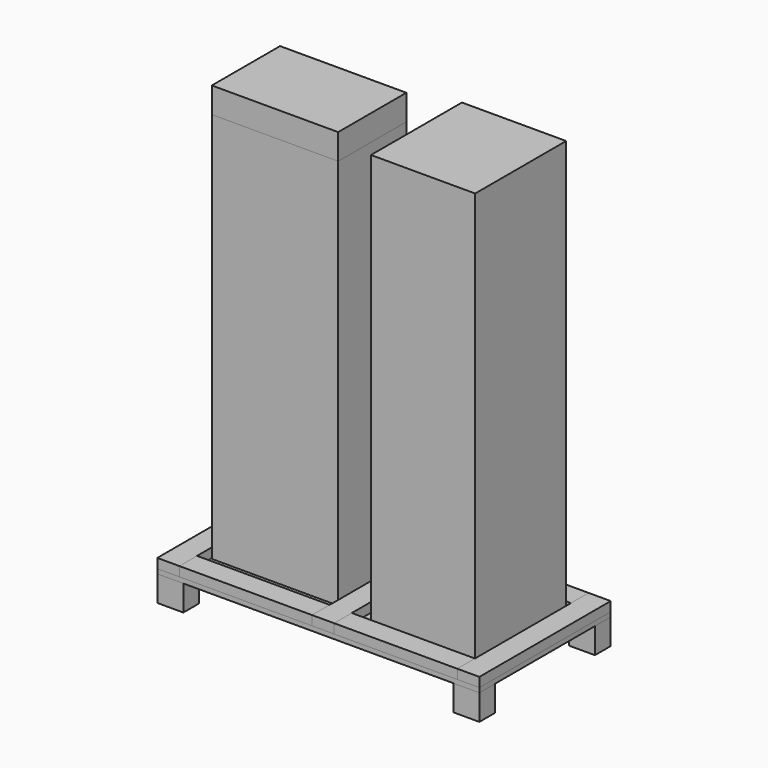
from build123d import *

# Parameters (mm, degrees)
F1_W      = 508
F1_H      = 342.9
F2_DEPTH  = 1676.4
F3_W      = 419.1
F3_H      = 457.2
F4_DEPTH  = 1676.4
F6_W      = 104.775
F6_H      = 79.375
F2_FACE_W = 508
F2_FACE_H = 342.9
F7_DEPTH  = 103.124
F8_W      = 1295.4
F8_H      = 660.4
F9_DEPTH  = 18.25625
F10_W     = 88.9
F10_H     = 38.1
F11_DEPTH = 1295.4
F13_W     = 88.9
F13_H     = 38.1
F14_DEPTH = 660.4


with BuildPart() as f2:
    # F1 (on Top) → F2 (new body)
    with BuildSketch(Plane.XY):
        with Locations((-301.2818683147, 0)):
            Rectangle(F1_W, F1_H)
    extrude(amount=F2_DEPTH)


with BuildPart() as f4:
    # F3 (on Top) → F4 (new body)
    with BuildSketch(Plane.XY):
        with Locations((340.0681316853, 0)):
            Rectangle(F3_W, F3_H)
    extrude(amount=F4_DEPTH)


with BuildPart() as f7:
    # F6 (on offset) + F2_face (on face) → F7 (new body)
    with BuildSketch(Plane.XY.offset(-18.25625)):
        with Locations((-595.3125, -290.5125)):
            Rectangle(F6_W, F6_H)
        with Locations((595.3125, -290.5125)):
            Rectangle(F6_W, F6_H)
        with Locations((-595.3125, 290.5125)):
            Rectangle(F6_W, F6_H)
        with Locations((595.3125, 290.5125)):
            Rectangle(F6_W, F6_H)
    with BuildSketch(Plane(origin=(-301.2818683147, 0, 1676.4), x_dir=(1, 0, 0), z_dir=(0, 0, 1))):
        Rectangle(F2_FACE_W, F2_FACE_H)
    extrude(amount=-F7_DEPTH)


with BuildPart() as f9:
    # F8 (on Top) → F9 (new body)
    with BuildSketch(Plane.XY):
        Rectangle(F8_W, F8_H)
    extrude(amount=-F9_DEPTH)


with BuildPart() as f11:
    # F10 (on face) → F11 (new body, through all)
    with BuildSketch(Plane(origin=(-647.7, 0, 0), x_dir=(0, -1, 0), z_dir=(-1, 0, 0))):
        with Locations((285.75, 19.05)):
            Rectangle(F10_W, F10_H)
    extrude(amount=-F11_DEPTH)


with BuildPart() as f12_1:
    # F12: instance of F11
    add(f11.part.mirror(Plane.XZ))


with BuildPart() as f14:
    # F13 (on face) → F14 (new body, through all)
    with BuildSketch(Plane.XZ.offset(330.2)):
        with Locations((-603.25, 19.05)):
            Rectangle(F13_W, F13_H)
    extrude(amount=-F14_DEPTH)


with BuildPart() as f17_1:
    # F17: instance of F14
    add(f14.part.mirror(Plane(origin=(0, -285.75, 19.05), x_dir=(0, -1, 0), z_dir=(-1, 0, 0))))


with BuildPart() as f19_1:
    # F19: instance of F14
    add(f14.part.mirror(Plane(origin=(-292.1, -285.75, 19.05), x_dir=(0, -1, 0), z_dir=(-1, 0, 0))))


solid = Compound([f2.part, f4.part, f7.part, f9.part, f11.part, f12_1.part, f14.part, f17_1.part, f19_1.part])
